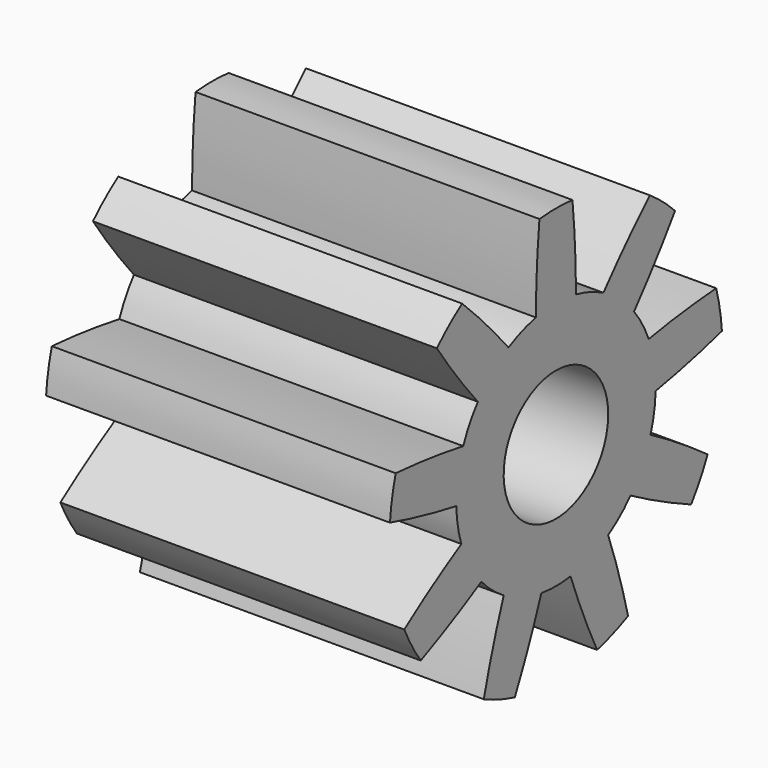
from build123d import *

# Parameters (mm, degrees)
F0_W     = 50
F0_H     = 20.75
F3_DEPTH = 50.001
F4_COUNT = 9


with BuildPart() as f1:
    # F0 (on Front) → F1 (revolve)
    with BuildSketch(Plane.XZ):
        with Locations((-25, 19.875)):
            Rectangle(F0_W, F0_H)
    revolve(axis=Axis((-20.0732499361, 0, 0), (1, 0, 0)))

    # F2 (on face) → F3 (cut, through all)
    with BuildSketch(Plane.YZ):
        with BuildLine():
            ThreePointArc((-8.6240252272, 15.9361409658), (-6.1974049971, 17.0272302886), (-3.6371673564, 17.7512087932))
            ThreePointArc((-3.6371673564, 17.7512087932), (-3.4777696522, 23.9342534629), (-3, 30.1008720804))
            ThreePointArc((-3, 30.1008720804), (-10.3461093356, 28.4257017788), (-17.0503342847, 24.9869686193))
            ThreePointArc((-17.0503342847, 24.9869686193), (-12.7205154565, 20.5701691072), (-8.6240252272, 15.9361409658))
        make_face()
    f3 = extrude(amount=-F3_DEPTH, mode=Mode.SUBTRACT)

    # F4: F3 ×9 about axis
    f4_axis = Axis((-20.0732499361, 0, 0), (1, 0, 0))
    for i in range(1, F4_COUNT):
        add(f3.rotate(f4_axis, i * 360 / F4_COUNT), mode=Mode.SUBTRACT)


solid = f1.part
